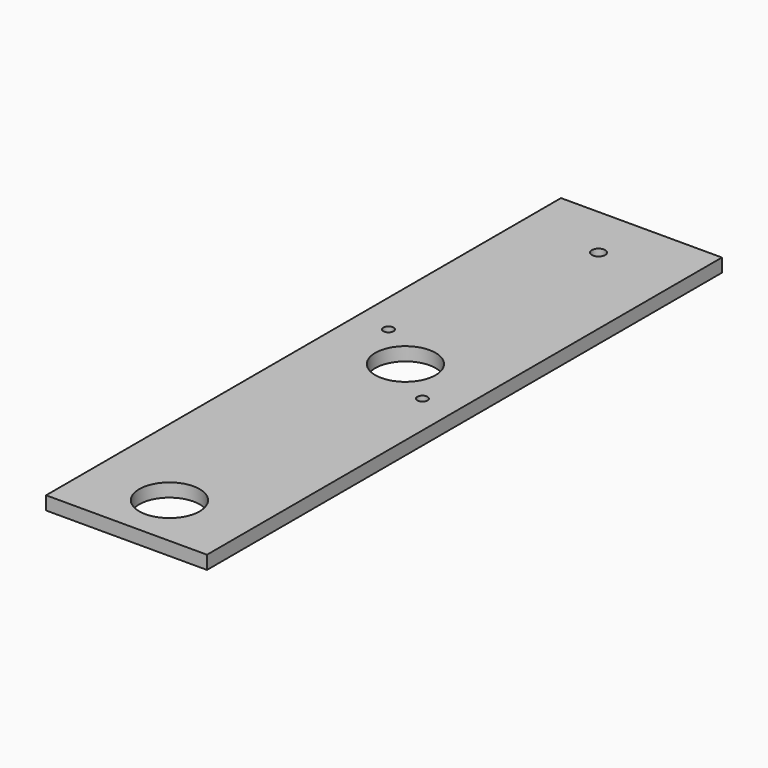
from build123d import *

# Parameters (mm, degrees)
F0_W      = 76.2
F0_H      = 304.8
F1_DEPTH  = 6.35
F2_R      = 3.175
F3_DEPTH  = 6.35
F4_R      = 14.2875
F5_DEPTH  = 6.35
F6_R      = 14.2875
F7_DEPTH  = 6.35
F8_R      = 2.413
F10_DEPTH = 6.35
F9_R      = 2.413
F11_DEPTH = 6.35


with BuildPart() as f1:
    # F0 (on Top) → F1 (new body)
    with BuildSketch(Plane.XY):
        with Locations((39.014159, 12.620198)):
            Rectangle(F0_W, F0_H)
    extrude(amount=F1_DEPTH)

    # F2 (on face) → F3 (cut)
    with BuildSketch(Plane.XY.offset(6.35)):
        with Locations((39.014159, 139.620198)):
            Circle(F2_R)
    extrude(amount=-F3_DEPTH, mode=Mode.SUBTRACT)

    # F4 (on face) → F5 (cut)
    with BuildSketch(Plane.XY.offset(6.35)):
        with Locations((39.014159, -114.379802)):
            Circle(F4_R)
    extrude(amount=-F5_DEPTH, mode=Mode.SUBTRACT)

    # F6 (on face) → F7 (cut)
    with BuildSketch(Plane.XY.offset(6.35)):
        with Locations((39.014159, 25.320198)):
            Circle(F6_R)
    extrude(amount=-F7_DEPTH, mode=Mode.SUBTRACT)

    # F8 (on face) → F10 (cut)
    with BuildSketch(Plane.XY.offset(6.35)):
        with Locations((61.239159, 7.590998)):
            Circle(F8_R)
    extrude(amount=-F10_DEPTH, mode=Mode.SUBTRACT)

    # F9 (on face) → F11 (cut)
    with BuildSketch(Plane.XY.offset(6.35)):
        with Locations((16.789159, 43.049398)):
            Circle(F9_R)
    extrude(amount=-F11_DEPTH, mode=Mode.SUBTRACT)


solid = f1.part
